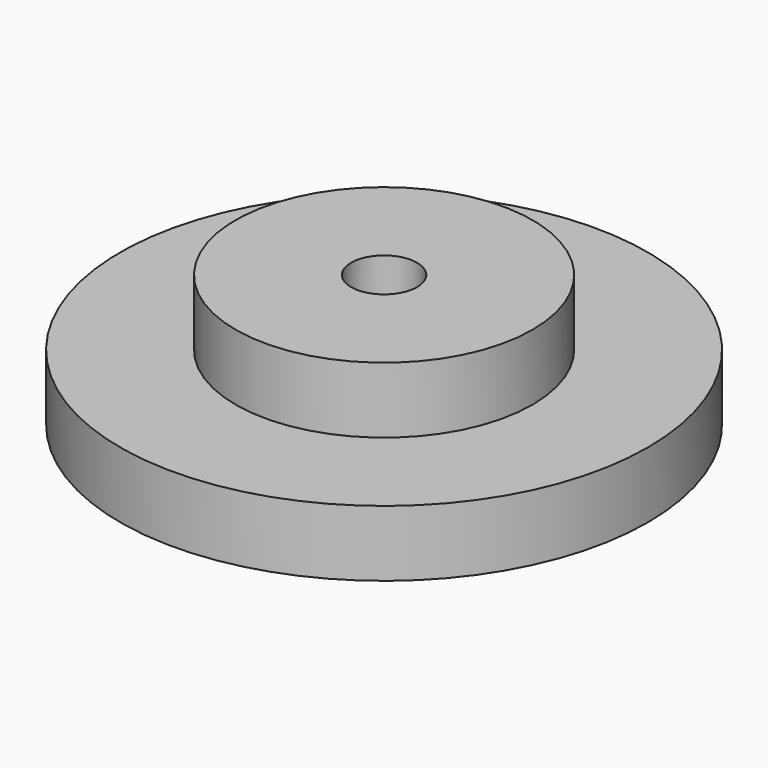
from build123d import *

# Parameters (mm, degrees)
F0_R     = 12.7
F0_R_2   = 7.14375
F1_DEPTH = 3.175
F0_R_3   = 1.5875
F2_DEPTH = 6.35
F3_DEPTH = 6.35


with BuildPart() as f1:
    # F0 (on Top) → F1 (new body)
    with BuildSketch(Plane.XY):
        Circle(F0_R)
        Circle(F0_R_2, mode=Mode.SUBTRACT)
    extrude(amount=F1_DEPTH)

    # F0 (on Top) → F2 (join)
    with BuildSketch(Plane.XY):
        Circle(F0_R_2)
        Circle(F0_R_3, mode=Mode.SUBTRACT)
    extrude(amount=F2_DEPTH)

    # F0 (on Top) → F3 (cut)
    with BuildSketch(Plane.XY):
        Circle(F0_R_3)
    extrude(amount=-F3_DEPTH, mode=Mode.SUBTRACT)


solid = f1.part
